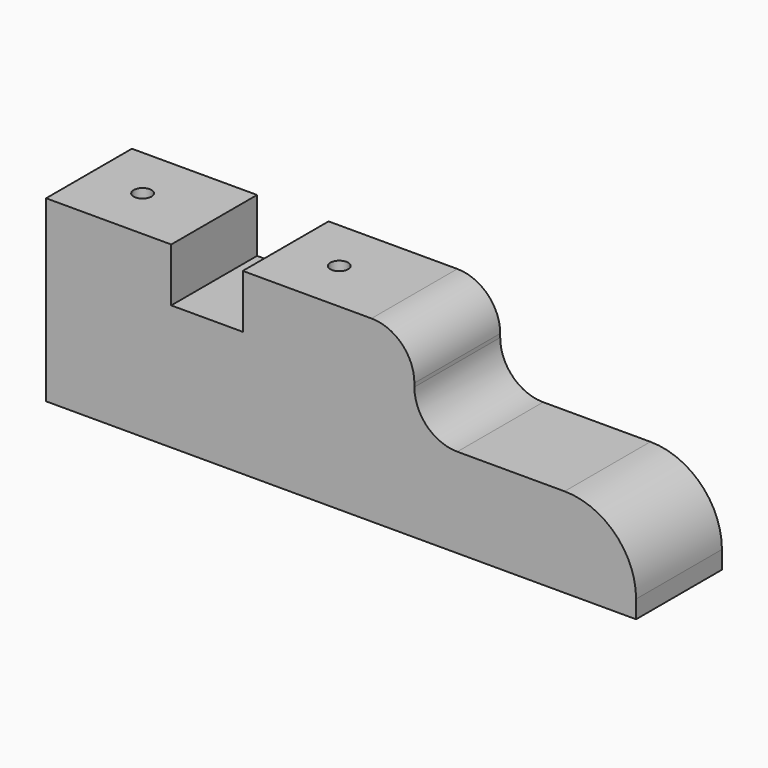
from build123d import *

# Parameters (mm, degrees)
F0_W     = 38.1
F0_H     = 63.5
F1_DEPTH = 104.775
F3_DEPTH = 38.101
F4_R     = 6.35
F5_DEPTH = 12.7
F6_R     = 3.175
F7_DEPTH = 50.801
F8_W     = 25.4
F8_H     = 19.05
F9_DEPTH = 38.101


with BuildPart() as f1:
    # F0 (on Right) → F1 (new body, symmetric)
    with BuildSketch(Plane.YZ):
        Rectangle(F0_W, F0_H)
    extrude(amount=F1_DEPTH, both=True)

    # F2 (on face) → F3 (cut, through all)
    with BuildSketch(Plane.XZ.offset(19.05)):
        with BuildLine():
            ThreePointArc((79.375, 0), (97.335512, -7.439488), (104.775, -25.4))
            Line((104.775, -25.4), (104.775, 31.75))
            Line((104.775, 31.75), (10.795, 31.75))
            ThreePointArc((10.795, 31.75), (21.571307, 27.286307), (26.035, 16.51))
            Line((26.035, 16.51), (26.035, 15.24))
            ThreePointArc((26.035, 15.24), (30.498693, 4.463693), (41.275, 0))
            Line((41.275, 0), (79.375, 0))
        make_face()
    extrude(amount=-F3_DEPTH, mode=Mode.SUBTRACT)

    # F4 (on face) → F5 (cut)
    with BuildSketch(Plane(origin=(0, 0, -31.75), x_dir=(1, 0, 0), z_dir=(0, 0, -1))):
        with Locations((-85.725, 0)):
            Circle(F4_R)
        with Locations((-15.875, 0)):
            Circle(F4_R)
    extrude(amount=-F5_DEPTH, mode=Mode.SUBTRACT)

    # F6 (on face) → F7 (cut, through all)
    with BuildSketch(Plane(origin=(0, 0, -19.05), x_dir=(1, 0, 0), z_dir=(0, 0, -1))):
        with Locations((-85.725, 0)):
            Circle(F6_R)
        with Locations((-15.875, 0)):
            Circle(F6_R)
    extrude(amount=-F7_DEPTH, mode=Mode.SUBTRACT)

    # F8 (on face) → F9 (cut, through all)
    with BuildSketch(Plane.XZ.offset(19.05)):
        with Locations((-47.625, 22.225)):
            Rectangle(F8_W, F8_H)
    extrude(amount=-F9_DEPTH, mode=Mode.SUBTRACT)


solid = f1.part
